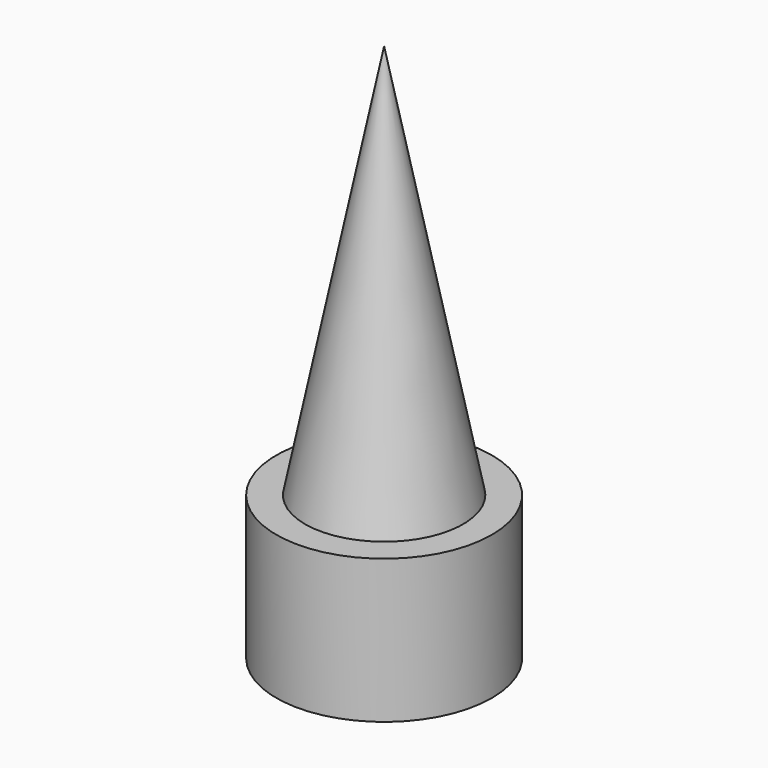
from build123d import *

# Parameters (mm, degrees)
F0_R     = 15.24
F3_DEPTH = 20.32


with BuildPart() as f2:
    # F1 (on Front) → F2 (revolve)
    with BuildSketch(Plane.XZ):
        Polygon((-15.24, 0), (0, 0), (0, 76.2), align=None)
    revolve(axis=Axis((0, 0, 38.1), (0, 0, -1)))

    # F0 (on Top) → F3 (join)
    with BuildSketch(Plane.XY):
        Circle(F0_R)
    extrude(amount=F3_DEPTH)


solid = f2.part
